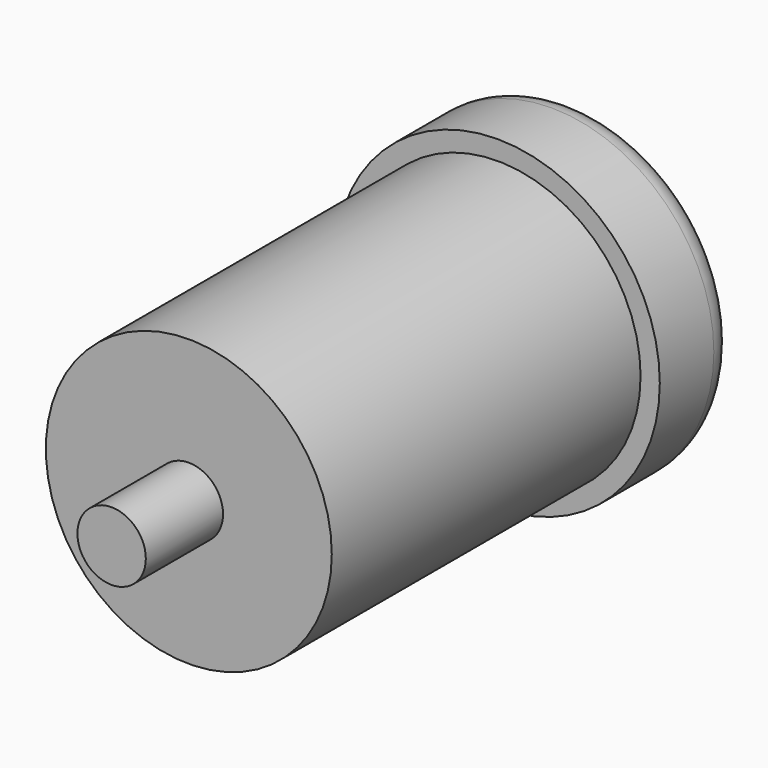
from build123d import *

# Parameters (mm, degrees)
F0_R     = 44.45
F1_DEPTH = 120
F2_R     = 50.427629
F3_DEPTH = 30
F4_R     = 9
F5_R     = 10.638423
F6_DEPTH = 150


with BuildPart() as f1:
    # F0 (on Front) → F1 (new body)
    with BuildSketch(Plane.XZ):
        Circle(F0_R)
    extrude(amount=F1_DEPTH)

    # F2 (on Front) → F3 (join)
    with BuildSketch(Plane.XZ):
        Circle(F2_R)
    extrude(amount=-F3_DEPTH)

    # F4
    f4_edges = [f1.edges().sort_by_distance(p)[0] for p in [
        (-50.427629, 30, 0),
    ]]
    fillet(f4_edges, radius=F4_R)

    # F5 (on Front) → F6 (join)
    with BuildSketch(Plane.XZ):
        Circle(F5_R)
    extrude(amount=F6_DEPTH)


solid = f1.part
